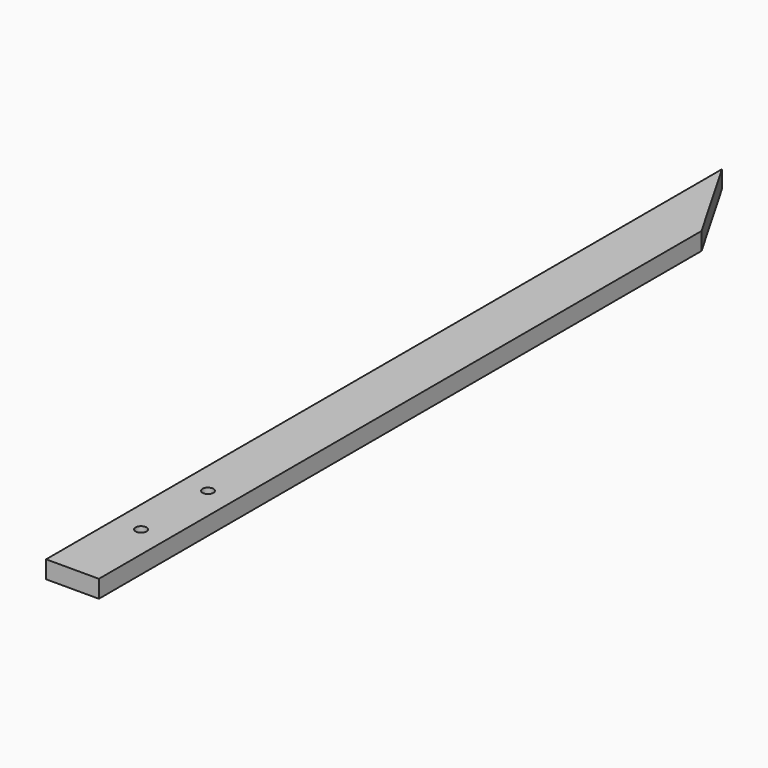
from build123d import *

# Parameters (mm, degrees)
SKETCH019_R            = 2.5
PAD013_DEPTH           = 8
POCKET_DEPTH           = 4.5
LINEARPATTERN001_COUNT = 2
LINEARPATTERN001_PITCH = 38


with BuildPart() as part:
    # Sketch019 → Pad013 (new body)
    with BuildSketch(Plane.XY.offset(8)):
        Polygon((8, 192), (32, 150.430781), (32, -192), (8, -192), align=None)
        with Locations((20, -115)):
            Circle(SKETCH019_R, mode=Mode.SUBTRACT)
        with Locations((20, -153)):
            Circle(SKETCH019_R, mode=Mode.SUBTRACT)
    extrude(amount=PAD013_DEPTH)

    # Sketch021 → Pocket (cut)
    with BuildSketch(Plane(origin=(0, 0, 8), x_dir=(1, 0, 0), z_dir=(0, 0, -1))):
        Polygon((20, 123), (13.071797, 111), (26.928203, 111), align=None)
    pocket = extrude(amount=-POCKET_DEPTH, mode=Mode.SUBTRACT)

    # LinearPattern001: Pocket ×2
    with Locations(*[(0, -i * LINEARPATTERN001_PITCH, 0) for i in range(1, LINEARPATTERN001_COUNT)]):
        add(pocket, mode=Mode.SUBTRACT)


with BuildPart() as part_1:
    # Clone004 placement: moved
    add(part.part.moved(Location((-71, 367, 0))))


solid = part_1.part
